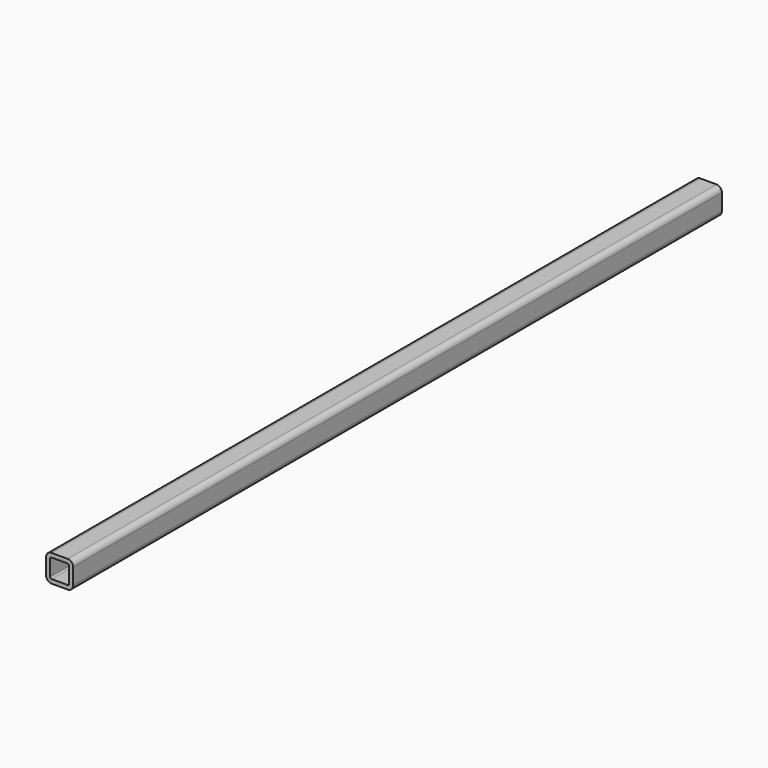
from build123d import *

# Parameters (mm, degrees)
F0_W     = 10
F0_H     = 10
F1_DEPTH = 300
F2_R     = 2
F3_T     = -1.5


with BuildPart() as f1:
    # F0 (on Front) → F1 (new body)
    with BuildSketch(Plane.XZ):
        with Locations((65.800157, 14.793174)):
            Rectangle(F0_W, F0_H)
    extrude(amount=F1_DEPTH)

    # F2
    f2_edges = [f1.edges().sort_by_distance(p)[0] for p in [
        (70.800157, -150, 19.793174),
        (60.800157, -150, 19.793174),
        (70.800157, -150, 9.793174),
        (60.800157, -150, 9.793174),
    ]]
    fillet(f2_edges, radius=F2_R)

    # F3
    f3_openings = [f1.faces().sort_by_distance(p)[0] for p in [
        (65.800157, -300, 14.793174),
        (65.800157, 0, 14.793174),
    ]]
    offset(amount=F3_T, openings=f3_openings)


solid = f1.part
